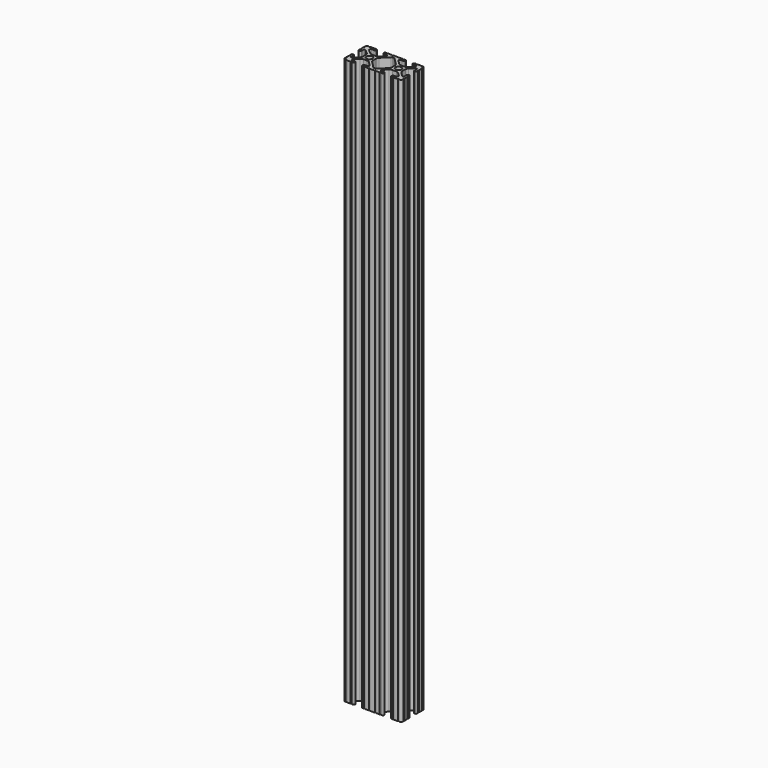
from build123d import *

# Parameters (mm, degrees)
SKETCH162_R   = 2.6035
EXTRUDE_DEPTH = 493.7252


with BuildPart() as part:
    # Sketch162 → Extrude (new body)
    with BuildSketch(Plane.XY):
        with BuildLine():
            Line((8.41248, -10.4902), (6.283641, -10.4902))
            ThreePointArc((5.532577, -8.666072), (5.297292, -9.829633), (6.283641, -10.4902))
            Line((5.532577, -8.666072), (8.809985, -5.416263))
            ThreePointArc((11.045536, -4.4958), (9.836721, -4.73492), (8.809985, -5.416263))
            Line((11.045536, -4.4958), (14.354464, -4.4958))
            ThreePointArc((16.590015, -5.416263), (15.563279, -4.73492), (14.354464, -4.4958))
            Line((16.590015, -5.416263), (19.867423, -8.666072))
            ThreePointArc((19.116359, -10.4902), (20.102708, -9.829633), (19.867423, -8.666072))
            Line((19.116359, -10.4902), (16.98752, -10.4902))
            ThreePointArc((16.98752, -10.4902), (16.245751, -10.797451), (15.9385, -11.53922))
            Line((15.9385, -11.53922), (15.938501, -11.65105))
            ThreePointArc((15.938501, -11.65105), (16.245731, -12.39277), (16.98745, -12.7))
            Line((16.98745, -12.7), (18.017115, -12.7))
            ThreePointArc((19.033115, -12.7), (18.525115, -12.192), (18.017115, -12.7))
            Line((19.033115, -12.7), (22.2504, -12.7))
            ThreePointArc((23.2664, -12.699847), (22.758323, -12.192), (22.2504, -12.7))
            ThreePointArc((23.2664, -12.699847), (24.782523, -12.082523), (25.399847, -10.5664))
            ThreePointArc((25.4, -9.5504), (24.892, -10.058323), (25.399847, -10.5664))
            Line((25.4, -9.5504), (25.4, -6.333084))
            ThreePointArc((25.4, -5.317084), (24.892, -5.825084), (25.4, -6.333084))
            Line((25.4, -5.317084), (25.4, -4.23752))
            ThreePointArc((25.4, -4.23752), (25.107394, -3.531106), (24.40098, -3.2385))
            Line((24.40098, -3.2385), (24.239219, -3.2385))
            ThreePointArc((24.239219, -3.2385), (23.49745, -3.545751), (23.1902, -4.28752))
            Line((23.1902, -4.28752), (23.1902, -6.334741))
            ThreePointArc((21.434003, -7.066536), (22.556027, -7.286024), (23.1902, -6.334741))
            Line((21.434003, -7.066536), (18.147951, -3.808156))
            ThreePointArc((17.208502, -1.55362), (17.45276, -2.774838), (18.147951, -3.808156))
            Line((17.208502, -1.55362), (17.208502, 1.695179))
            ThreePointArc((18.140486, 3.94229), (17.450739, 2.911536), (17.208502, 1.695179))
            Line((18.140486, 3.94229), (21.43158, 7.227386))
            ThreePointArc((23.1902, 6.498002), (22.554449, 7.449941), (21.43158, 7.227386))
            Line((23.1902, 6.498002), (23.190199, 4.28752))
            ThreePointArc((23.190199, 4.28752), (23.49745, 3.545751), (24.23922, 3.2385))
            Line((24.23922, 3.2385), (24.350981, 3.2385))
            ThreePointArc((24.350981, 3.2385), (25.09275, 3.545751), (25.4, 4.28752))
            Line((25.4, 4.28752), (25.4, 5.317134))
            ThreePointArc((25.4, 6.333134), (24.892, 5.825134), (25.4, 5.317134))
            Line((25.4, 6.333134), (25.4, 9.5504))
            ThreePointArc((25.399847, 10.5664), (24.892, 10.058324), (25.4, 9.5504))
            ThreePointArc((25.399847, 10.5664), (24.782523, 12.082523), (23.2664, 12.699847))
            ThreePointArc((22.2504, 12.7), (22.758323, 12.192), (23.2664, 12.699847))
            Line((22.2504, 12.7), (19.03309, 12.7))
            ThreePointArc((18.01709, 12.7), (18.52509, 12.192), (19.03309, 12.7))
            Line((18.01709, 12.7), (16.98747, 12.7))
            ThreePointArc((16.98747, 12.7), (16.2457, 12.392749), (15.938449, 11.65098))
            Line((15.938449, 11.65098), (15.938449, 11.53922))
            ThreePointArc((15.938449, 11.53922), (16.2457, 10.797451), (16.987469, 10.4902))
            Line((16.987469, 10.4902), (19.116359, 10.4902))
            ThreePointArc((19.834124, 8.755125), (20.055198, 9.862578), (19.116359, 10.4902))
            Line((19.834124, 8.755125), (16.496607, 5.42369))
            ThreePointArc((14.253592, 4.4958), (15.467274, 4.736929), (16.496607, 5.42369))
            Line((14.253592, 4.4958), (11.146408, 4.4958))
            ThreePointArc((8.903392, 5.42369), (9.932726, 4.736929), (11.146408, 4.4958))
            Line((8.903392, 5.42369), (5.565875, 8.755125))
            ThreePointArc((6.283641, 10.4902), (5.344802, 9.862579), (5.565875, 8.755125))
            Line((6.283641, 10.4902), (8.412531, 10.4902))
            ThreePointArc((8.412531, 10.4902), (9.1543, 10.797451), (9.461551, 11.53922))
            Line((9.461551, 11.53922), (9.461551, 11.65098))
            ThreePointArc((9.461551, 11.65098), (9.1543, 12.392749), (8.412531, 12.7))
            Line((8.412531, 12.7), (7.382872, 12.7))
            ThreePointArc((6.366872, 12.7), (6.874872, 12.192), (7.382872, 12.7))
            Line((6.366872, 12.7), (3.149606, 12.7))
            ThreePointArc((2.133606, 12.7), (2.641606, 12.192), (3.149606, 12.7))
            Line((2.133606, 12.7), (-2.133606, 12.7))
            ThreePointArc((-3.149581, 12.7), (-2.641594, 12.192013), (-2.133606, 12.7))
            Line((-3.149581, 12.7), (-6.36691, 12.7))
            ThreePointArc((-7.38291, 12.7), (-6.87491, 12.192), (-6.36691, 12.7))
            Line((-7.38291, 12.7), (-8.412531, 12.7))
            ThreePointArc((-8.412531, 12.7), (-9.1543, 12.392749), (-9.461551, 11.65098))
            Line((-9.461551, 11.65098), (-9.461551, 11.53922))
            ThreePointArc((-9.461551, 11.53922), (-9.1543, 10.797451), (-8.412531, 10.4902))
            Line((-8.412531, 10.4902), (-6.289393, 10.4902))
            ThreePointArc((-5.480677, 8.535266), (-5.23159, 9.78305), (-6.289393, 10.4902))
            Line((-5.480677, 8.535266), (-8.597934, 5.42369))
            ThreePointArc((-10.840949, 4.4958), (-9.627267, 4.736929), (-8.597934, 5.42369))
            Line((-10.840949, 4.4958), (-14.102564, 4.4958))
            ThreePointArc((-16.187895, 5.276637), (-15.215928, 4.69741), (-14.102564, 4.4958))
            Line((-16.187895, 5.276637), (-19.868248, 8.482246))
            ThreePointArc((-19.116384, 10.4902), (-20.188436, 9.74688), (-19.868248, 8.482246))
            Line((-19.116384, 10.4902), (-16.987469, 10.4902))
            ThreePointArc((-16.987469, 10.4902), (-16.2457, 10.797451), (-15.938449, 11.53922))
            Line((-15.938449, 11.53922), (-15.938449, 11.65098))
            ThreePointArc((-15.938449, 11.65098), (-16.2457, 12.392749), (-16.987469, 12.7))
            Line((-16.987469, 12.7), (-18.017103, 12.7))
            ThreePointArc((-19.033103, 12.7), (-18.525103, 12.192), (-18.017103, 12.7))
            Line((-19.033103, 12.7), (-22.2504, 12.7))
            ThreePointArc((-23.2664, 12.699847), (-22.758323, 12.192), (-22.2504, 12.7))
            ThreePointArc((-23.2664, 12.699847), (-24.782523, 12.082523), (-25.399847, 10.5664))
            ThreePointArc((-25.4, 9.5504), (-24.892, 10.058323), (-25.399847, 10.5664))
            Line((-25.4, 9.5504), (-25.4, 6.333084))
            ThreePointArc((-25.4, 5.317084), (-24.892, 5.825084), (-25.4, 6.333084))
            Line((-25.4, 5.317084), (-25.4, 4.23752))
            ThreePointArc((-25.4, 4.23752), (-25.107394, 3.531106), (-24.40098, 3.2385))
            Line((-24.40098, 3.2385), (-24.18922, 3.2385))
            ThreePointArc((-24.18922, 3.2385), (-23.482806, 3.531106), (-23.1902, 4.23752))
            Line((-23.1902, 4.23752), (-23.1902, 6.155876))
            ThreePointArc((-21.583975, 6.886926), (-22.622327, 7.038259), (-23.1902, 6.155876))
            Line((-21.583975, 6.886926), (-18.298171, 4.024971))
            ThreePointArc((-17.208502, 1.630807), (-17.493731, 2.946045), (-18.298171, 4.024971))
            Line((-17.208502, 1.630807), (-17.208502, -1.630807))
            ThreePointArc((-18.109441, -3.846495), (-17.442348, -2.826734), (-17.208502, -1.630807))
            Line((-18.109441, -3.846495), (-21.526347, -7.35342))
            ThreePointArc((-23.1902, -6.676867), (-22.585896, -7.574939), (-21.526347, -7.35342))
            Line((-23.1902, -6.676867), (-23.1902, -4.23752))
            ThreePointArc((-23.1902, -4.23752), (-23.482806, -3.531106), (-24.18922, -3.2385))
            Line((-24.18922, -3.2385), (-24.400979, -3.2385))
            ThreePointArc((-24.400979, -3.2385), (-25.107394, -3.531106), (-25.4, -4.23752))
            Line((-25.4, -4.23752), (-25.4, -5.317084))
            ThreePointArc((-25.4, -6.333185), (-24.891949, -5.825134), (-25.4, -5.317084))
            Line((-25.4, -6.333185), (-25.4, -9.5504))
            ThreePointArc((-25.399847, -10.5664), (-24.892, -10.058323), (-25.4, -9.5504))
            ThreePointArc((-25.399847, -10.5664), (-24.782522, -12.082522), (-23.2664, -12.699847))
            ThreePointArc((-22.2504, -12.7), (-22.758323, -12.192), (-23.2664, -12.699847))
            Line((-22.2504, -12.7), (-19.033103, -12.7))
            ThreePointArc((-18.017103, -12.7), (-18.525103, -12.192), (-19.033103, -12.7))
            Line((-18.017103, -12.7), (-16.98745, -12.7))
            ThreePointArc((-16.98745, -12.7), (-16.24573, -12.39277), (-15.9385, -11.65105))
            Line((-15.9385, -11.65105), (-15.9385, -11.53922))
            ThreePointArc((-15.9385, -11.53922), (-16.245751, -10.797451), (-16.98752, -10.4902))
            Line((-16.98752, -10.4902), (-19.116384, -10.4902))
            ThreePointArc((-19.844087, -8.765172), (-20.052503, -9.869097), (-19.116384, -10.4902))
            Line((-19.844087, -8.765172), (-16.618993, -5.455112))
            ThreePointArc((-14.344933, -4.4958), (-15.578994, -4.745442), (-16.618993, -5.455112))
            Line((-14.344933, -4.4958), (-11.083318, -4.4958))
            ThreePointArc((-8.816955, -5.447239), (-9.854331, -4.743307), (-11.083318, -4.4958))
            Line((-8.816955, -5.447239), (-5.564154, -8.762653))
            ThreePointArc((-6.289393, -10.4902), (-5.352591, -9.867473), (-5.564154, -8.762653))
            Line((-6.289393, -10.4902), (-8.41248, -10.4902))
            ThreePointArc((-8.41248, -10.4902), (-9.154249, -10.797451), (-9.4615, -11.53922))
            Line((-9.4615, -11.53922), (-9.4615, -11.65105))
            ThreePointArc((-9.4615, -11.65105), (-9.154269, -12.39277), (-8.41255, -12.7))
            Line((-8.41255, -12.7), (-7.382885, -12.7))
            ThreePointArc((-6.366885, -12.7), (-6.874885, -12.192), (-7.382885, -12.7))
            Line((-6.366885, -12.7), (-3.149581, -12.7))
            ThreePointArc((-2.133581, -12.7), (-2.641581, -12.192), (-3.149581, -12.7))
            Line((-2.133581, -12.7), (2.133581, -12.7))
            ThreePointArc((3.149581, -12.7), (2.641581, -12.192), (2.133581, -12.7))
            Line((3.149581, -12.7), (6.366897, -12.7))
            ThreePointArc((7.382897, -12.7), (6.874897, -12.192), (6.366897, -12.7))
            Line((7.382897, -12.7), (8.41255, -12.7))
            ThreePointArc((8.41255, -12.7), (9.15427, -12.392769), (9.4615, -11.65105))
            Line((9.4615, -11.65105), (9.461501, -11.53922))
            ThreePointArc((9.461501, -11.53922), (9.154249, -10.797451), (8.41248, -10.4902))
        make_face()
        with Locations((12.7, 0)):
            Circle(SKETCH162_R, mode=Mode.SUBTRACT)
        with Locations((-12.7, 0)):
            Circle(SKETCH162_R, mode=Mode.SUBTRACT)
        with BuildLine():
            Line((7.259514, 3.869413), (1.545749, 9.572767))
            ThreePointArc((1.545749, 9.572767), (1.035199, 9.9134), (0.433213, 10.033))
            Line((0.433213, 10.033), (-0.433213, 10.033))
            ThreePointArc((-0.433213, 10.033), (-1.0352, 9.9134), (-1.545749, 9.572767))
            Line((-1.545749, 9.572767), (-7.259514, 3.869413))
            ThreePointArc((-7.259514, 3.869413), (-7.949261, 2.83866), (-8.191498, 1.622303))
            Line((-8.191498, 1.622303), (-8.191498, -1.622303))
            ThreePointArc((-8.191498, -1.622303), (-7.955573, -2.823328), (-7.282861, -3.845864))
            Line((-7.282861, -3.845864), (-1.675572, -9.561086))
            ThreePointArc((-1.675572, -9.561086), (-1.161034, -9.910236), (-0.551457, -10.033))
            Line((-0.551457, -10.033), (0.3952, -10.033))
            ThreePointArc((0.3952, -10.033), (0.994773, -9.914396), (1.504033, -9.57645))
            Line((1.504033, -9.57645), (7.252049, -3.87684))
            ThreePointArc((7.252049, -3.87684), (7.94724, -2.843521), (8.191498, -1.622303))
            Line((8.191498, -1.622303), (8.191499, 1.622303))
            ThreePointArc((8.191499, 1.622303), (7.949262, 2.83866), (7.259514, 3.869413))
        make_face(mode=Mode.SUBTRACT)
    extrude(amount=EXTRUDE_DEPTH)


solid = part.part
